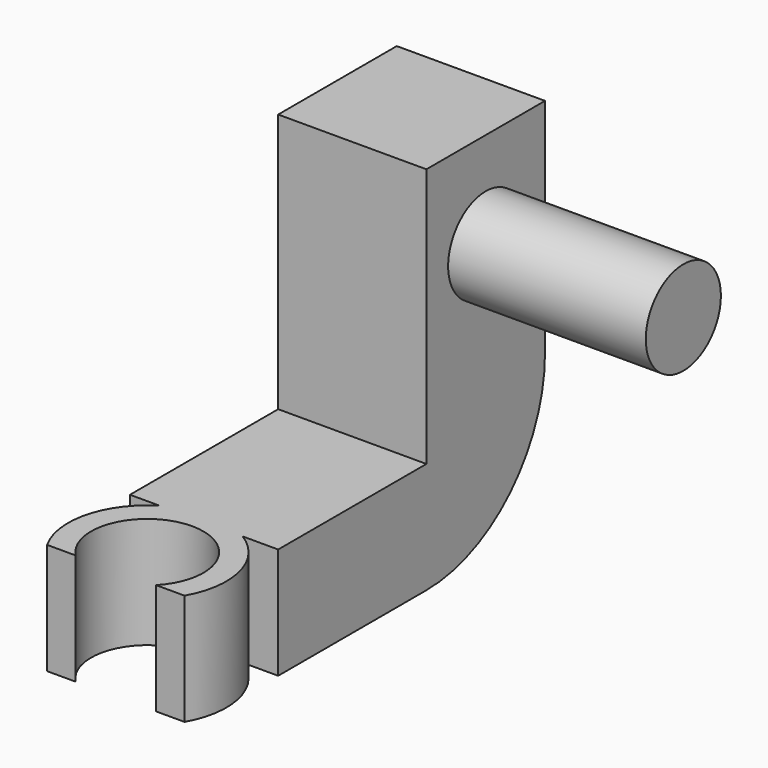
from build123d import *

# Parameters (mm, degrees)
F0_W      = 5.08
F0_H      = 12.7
F1_DEPTH  = 5.08
F2_W      = 5.08
F2_H      = 3.81
F3_DEPTH  = 6.35
F4_R      = 5.08
F5_R      = 2.7121475218
F6_DEPTH  = 3.81
F7_R      = 1.9253373718
F8_DEPTH  = 3.81
F9_W      = 5.3527112813
F9_H      = 1.6279429131
F10_DEPTH = 3.81
F11_SCALE = 1.5
F12_R     = 2.413
F13_DEPTH = 10.16


with BuildPart() as f1:
    # F0 (on Front) → F1 (new body)
    with BuildSketch(Plane.XZ):
        with Locations((2.54, 20.2292869008)):
            Rectangle(F0_W, F0_H)
    extrude(amount=F1_DEPTH)

    # F2 (on face) → F3 (join)
    with BuildSketch(Plane.XZ.offset(5.08)):
        with Locations((2.54, 15.7842869008)):
            Rectangle(F2_W, F2_H)
    extrude(amount=F3_DEPTH)

    # F4
    f4_edges = [f1.edges().sort_by_distance(p)[0] for p in [
        (2.54, 0, 13.879287),
    ]]
    fillet(f4_edges, radius=F4_R)

    # F5 (on face) → F6 (join)
    with BuildSketch(Plane.XY.offset(17.6892869008)):
        with Locations((2.4383503072, -13.7368525874)):
            Circle(F5_R)
    extrude(amount=-F6_DEPTH)

    # F7 (on face) → F8 (cut)
    with BuildSketch(Plane.XY.offset(17.6892869008)):
        with Locations((2.4383503072, -13.7368525874)):
            Circle(F7_R)
    extrude(amount=-F8_DEPTH, mode=Mode.SUBTRACT)

    # F9 (on face) → F10 (cut)
    with BuildSketch(Plane.XY.offset(17.6892869008)):
        with Locations((2.7606785416, -15.8977832678)):
            Rectangle(F9_W, F9_H)
    extrude(amount=-F10_DEPTH, mode=Mode.SUBTRACT)


with BuildPart() as f1_1:
    # F11: moved
    add(f1.part.scale(F11_SCALE))

    # F12 (on face) → F13 (join)
    with BuildSketch(Plane.YZ.offset(7.62)):
        with Locations((-3.81, 34.9159303513)):
            Circle(F12_R)
    extrude(amount=F13_DEPTH)


solid = f1_1.part
